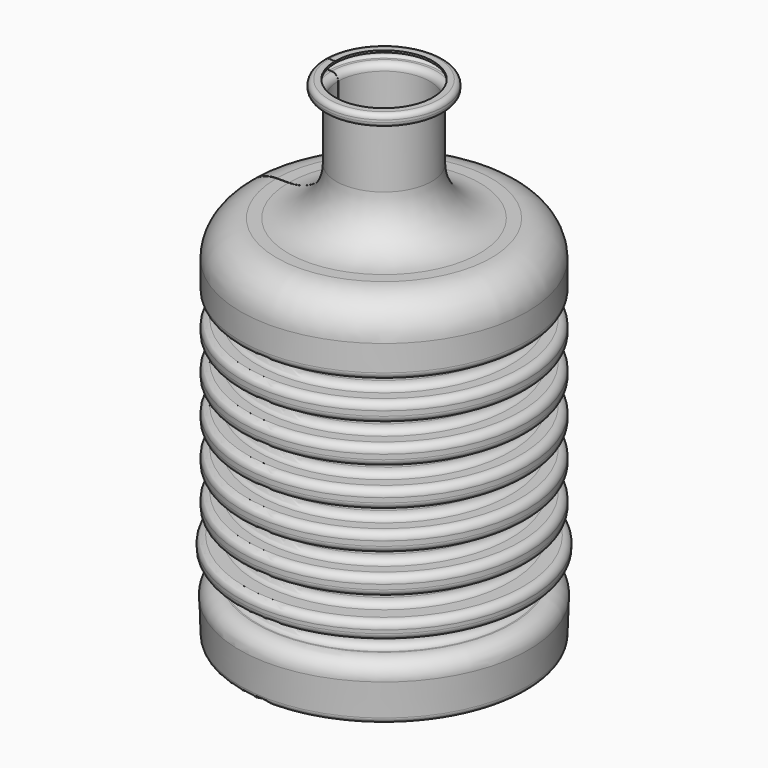
from build123d import *

# Parameters (mm, degrees)
F1_ANGLE = -359.75997


with BuildPart() as f1:
    # F0 (on Front) → F1 (revolve)
    with BuildSketch(Plane.XZ):
        with BuildLine():
            Line((-5.208139, 50.327896), (-5.208139, 50.531096))
            Line((-5.208139, 50.531096), (-5.842, 50.531096))
            ThreePointArc((-5.842, 50.531096), (-6.20121, 50.382306), (-6.35, 50.023096))
            Line((-6.35, 50.023096), (-6.35, 49.769096))
            ThreePointArc((-6.35, 49.769096), (-6.20121, 49.409885), (-5.842, 49.261096))
            Line((-5.842, 49.261096), (-5.588, 49.261096))
            ThreePointArc((-5.588, 49.261096), (-5.22879, 49.112306), (-5.08, 48.753096))
            Line((-5.08, 48.753096), (-5.08, 46.721096))
            Line((-5.08, 46.721096), (-5.08, 42.613812))
            ThreePointArc((-5.08, 42.613812), (-6.567898, 39.02171), (-10.16, 37.533812))
            Line((-10.16, 37.533812), (-11.43, 37.533812))
            ThreePointArc((-11.43, 37.533812), (-14.124077, 36.417889), (-15.24, 33.723812))
            Line((-15.24, 33.723812), (-15.24, 32.352686))
            Line((-15.24, 32.352686), (-15.24, 30.973096))
            ThreePointArc((-15.24, 30.973096), (-15.016815, 30.43428), (-14.478, 30.211096))
            Line((-14.478, 30.211096), (-13.462, 30.211096))
            ThreePointArc((-13.462, 30.211096), (-12.923185, 29.987911), (-12.7, 29.449096))
            Line((-12.7, 29.449096), (-12.7, 28.941096))
            ThreePointArc((-12.7, 28.941096), (-12.923185, 28.40228), (-13.462, 28.179096))
            Line((-13.462, 28.179096), (-14.478, 28.179096))
            ThreePointArc((-14.478, 28.179096), (-15.016815, 27.955911), (-15.24, 27.417096))
            Line((-15.24, 27.417096), (-15.24, 26.909096))
            ThreePointArc((-15.24, 26.909096), (-15.016815, 26.37028), (-14.478, 26.147096))
            Line((-14.478, 26.147096), (-13.462, 26.147096))
            ThreePointArc((-13.462, 26.147096), (-12.923185, 25.923911), (-12.7, 25.385096))
            Line((-12.7, 25.385096), (-12.7, 24.877096))
            ThreePointArc((-12.7, 24.877096), (-12.923185, 24.33828), (-13.462, 24.115096))
            Line((-13.462, 24.115096), (-14.478, 24.115096))
            ThreePointArc((-14.478, 24.115096), (-15.016815, 23.891911), (-15.24, 23.353096))
            Line((-15.24, 23.353096), (-15.24, 22.845096))
            ThreePointArc((-15.24, 22.845096), (-15.016815, 22.30628), (-14.478, 22.083096))
            Line((-14.478, 22.083096), (-13.462, 22.083096))
            ThreePointArc((-13.462, 22.083096), (-12.923185, 21.859911), (-12.7, 21.321096))
            Line((-12.7, 21.321096), (-12.7, 20.813096))
            ThreePointArc((-12.7, 20.813096), (-12.923185, 20.27428), (-13.462, 20.051096))
            Line((-13.462, 20.051096), (-14.478, 20.051096))
            ThreePointArc((-14.478, 20.051096), (-15.016815, 19.827911), (-15.24, 19.289096))
            Line((-15.24, 19.289096), (-15.24, 18.796776))
            ThreePointArc((-15.24, 18.796776), (-15.016815, 18.257961), (-14.478, 18.034776))
            Line((-14.478, 18.034776), (-13.462, 18.034776))
            ThreePointArc((-13.462, 18.034776), (-12.923185, 17.811591), (-12.7, 17.272776))
            Line((-12.7, 17.272776), (-12.7, 16.764776))
            ThreePointArc((-12.7, 16.764776), (-12.923185, 16.225961), (-13.462, 16.002776))
            Line((-13.462, 16.002776), (-14.478, 16.002776))
            ThreePointArc((-14.478, 16.002776), (-15.016815, 15.779591), (-15.24, 15.240776))
            Line((-15.24, 15.240776), (-15.24, 14.732776))
            ThreePointArc((-15.24, 14.732776), (-15.016815, 14.193961), (-14.478, 13.970776))
            Line((-14.478, 13.970776), (-13.462, 13.970776))
            ThreePointArc((-13.462, 13.970776), (-12.923185, 13.747591), (-12.7, 13.208776))
            Line((-12.7, 13.208776), (-12.7, 12.700776))
            ThreePointArc((-12.7, 12.700776), (-12.923185, 12.161961), (-13.462, 11.938776))
            Line((-13.462, 11.938776), (-14.478, 11.938776))
            ThreePointArc((-14.478, 11.938776), (-15.016815, 11.715591), (-15.24, 11.176776))
            Line((-15.24, 11.176776), (-15.24, 10.668776))
            ThreePointArc((-15.24, 10.668776), (-15.016815, 10.129961), (-14.478, 9.906776))
            Line((-14.478, 9.906776), (-13.462, 9.906776))
            ThreePointArc((-13.462, 9.906776), (-12.923185, 9.683591), (-12.7, 9.144776))
            Line((-12.7, 9.144776), (-12.7, 8.636776))
            ThreePointArc((-12.7, 8.636776), (-12.923185, 8.097961), (-13.462, 7.874776))
            Line((-13.462, 7.874776), (-14.812436, 7.874776))
            ThreePointArc((-14.812436, 7.874776), (-15.361935, 7.640692), (-15.573824, 7.082258))
            Line((-15.573824, 7.082258), (-15.559383, 6.721954))
            ThreePointArc((-15.559383, 6.721954), (-15.325909, 6.202972), (-14.797994, 5.990471))
            Line((-14.797994, 5.990471), (-13.462, 5.990471))
            ThreePointArc((-13.462, 5.990471), (-12.923185, 5.767287), (-12.7, 5.228471))
            Line((-12.7, 5.228471), (-12.7, 4.720471))
            ThreePointArc((-12.7, 4.720471), (-12.923185, 4.181656), (-13.462, 3.958471))
            Line((-13.462, 3.958471), (-13.597924, 3.958471))
            ThreePointArc((-13.597924, 3.958471), (-14.880089, 3.412274), (-15.374497, 2.109263))
            Line((-15.374497, 2.109263), (-15.236536, -1.33273))
            ThreePointArc((-15.236536, -1.33273), (-15.041975, -1.765215), (-14.602045, -1.942299))
            Line((-14.602045, -1.942299), (-2.667203, -1.942299))
            Line((-2.667203, -1.942299), (0, -1.942299))
            Line((0, -1.942299), (0, -1.739099))
            Line((0, -1.739099), (-2.667203, -1.739099))
            Line((-2.667203, -1.739099), (-14.602045, -1.739099))
            ThreePointArc((-14.602045, -1.739099), (-14.901198, -1.618682), (-15.033499, -1.324592))
            Line((-15.033499, -1.324592), (-15.171461, 2.117401))
            ThreePointArc((-15.171461, 2.117401), (-14.733556, 3.271497), (-13.597924, 3.755271))
            Line((-13.597924, 3.755271), (-13.462, 3.755271))
            ThreePointArc((-13.462, 3.755271), (-12.779501, 4.037972), (-12.4968, 4.720471))
            Line((-12.4968, 4.720471), (-12.4968, 5.228471))
            ThreePointArc((-12.4968, 5.228471), (-12.779501, 5.910971), (-13.462, 6.193671))
            Line((-13.462, 6.193671), (-14.797994, 6.193671))
            ThreePointArc((-14.797994, 6.193671), (-15.185132, 6.349505), (-15.356346, 6.730092))
            Line((-15.356346, 6.730092), (-15.370787, 7.090396))
            ThreePointArc((-15.370787, 7.090396), (-15.215402, 7.499914), (-14.812436, 7.671576))
            Line((-14.812436, 7.671576), (-13.462, 7.671576))
            ThreePointArc((-13.462, 7.671576), (-12.779501, 7.954277), (-12.4968, 8.636776))
            Line((-12.4968, 8.636776), (-12.4968, 9.144776))
            ThreePointArc((-12.4968, 9.144776), (-12.779501, 9.827276), (-13.462, 10.109976))
            Line((-13.462, 10.109976), (-14.478, 10.109976))
            ThreePointArc((-14.478, 10.109976), (-14.873131, 10.273645), (-15.0368, 10.668776))
            Line((-15.0368, 10.668776), (-15.0368, 11.176776))
            ThreePointArc((-15.0368, 11.176776), (-14.873131, 11.571907), (-14.478, 11.735576))
            Line((-14.478, 11.735576), (-13.462, 11.735576))
            ThreePointArc((-13.462, 11.735576), (-12.779501, 12.018277), (-12.4968, 12.700776))
            Line((-12.4968, 12.700776), (-12.4968, 13.208776))
            ThreePointArc((-12.4968, 13.208776), (-12.779501, 13.891276), (-13.462, 14.173976))
            Line((-13.462, 14.173976), (-14.478, 14.173976))
            ThreePointArc((-14.478, 14.173976), (-14.873131, 14.337645), (-15.0368, 14.732776))
            Line((-15.0368, 14.732776), (-15.0368, 15.240776))
            ThreePointArc((-15.0368, 15.240776), (-14.873131, 15.635907), (-14.478, 15.799576))
            Line((-14.478, 15.799576), (-13.462, 15.799576))
            ThreePointArc((-13.462, 15.799576), (-12.779501, 16.082277), (-12.4968, 16.764776))
            Line((-12.4968, 16.764776), (-12.4968, 17.272776))
            ThreePointArc((-12.4968, 17.272776), (-12.779501, 17.955276), (-13.462, 18.237976))
            Line((-13.462, 18.237976), (-14.478, 18.237976))
            ThreePointArc((-14.478, 18.237976), (-14.873131, 18.401645), (-15.0368, 18.796776))
            Line((-15.0368, 18.796776), (-15.0368, 19.289096))
            ThreePointArc((-15.0368, 19.289096), (-14.873131, 19.684227), (-14.478, 19.847896))
            Line((-14.478, 19.847896), (-13.462, 19.847896))
            ThreePointArc((-13.462, 19.847896), (-12.779501, 20.130596), (-12.4968, 20.813096))
            Line((-12.4968, 20.813096), (-12.4968, 21.321096))
            ThreePointArc((-12.4968, 21.321096), (-12.779501, 22.003595), (-13.462, 22.286296))
            Line((-13.462, 22.286296), (-14.478, 22.286296))
            ThreePointArc((-14.478, 22.286296), (-14.873131, 22.449964), (-15.0368, 22.845096))
            Line((-15.0368, 22.845096), (-15.0368, 23.353096))
            ThreePointArc((-15.0368, 23.353096), (-14.873131, 23.748227), (-14.478, 23.911896))
            Line((-14.478, 23.911896), (-13.462, 23.911896))
            ThreePointArc((-13.462, 23.911896), (-12.779501, 24.194596), (-12.4968, 24.877096))
            Line((-12.4968, 24.877096), (-12.4968, 25.385096))
            ThreePointArc((-12.4968, 25.385096), (-12.779501, 26.067595), (-13.462, 26.350296))
            Line((-13.462, 26.350296), (-14.478, 26.350296))
            ThreePointArc((-14.478, 26.350296), (-14.873131, 26.513964), (-15.0368, 26.909096))
            Line((-15.0368, 26.909096), (-15.0368, 27.417096))
            ThreePointArc((-15.0368, 27.417096), (-14.873131, 27.812227), (-14.478, 27.975896))
            Line((-14.478, 27.975896), (-13.462, 27.975896))
            ThreePointArc((-13.462, 27.975896), (-12.779501, 28.258596), (-12.4968, 28.941096))
            Line((-12.4968, 28.941096), (-12.4968, 29.449096))
            ThreePointArc((-12.4968, 29.449096), (-12.779501, 30.131595), (-13.462, 30.414296))
            Line((-13.462, 30.414296), (-14.478, 30.414296))
            ThreePointArc((-14.478, 30.414296), (-14.873131, 30.577964), (-15.0368, 30.973096))
            Line((-15.0368, 30.973096), (-15.0368, 32.352686))
            Line((-15.0368, 32.352686), (-15.0368, 33.723812))
            ThreePointArc((-15.0368, 33.723812), (-13.980393, 36.274205), (-11.43, 37.330612))
            Line((-11.43, 37.330612), (-10.16, 37.330612))
            ThreePointArc((-10.16, 37.330612), (-6.424213, 38.878026), (-4.8768, 42.613812))
            Line((-4.8768, 42.613812), (-4.8768, 46.721096))
            Line((-4.8768, 46.721096), (-4.8768, 48.753096))
            ThreePointArc((-4.8768, 48.753096), (-5.085106, 49.25599), (-5.588, 49.464296))
            Line((-5.588, 49.464296), (-5.842, 49.464296))
            ThreePointArc((-5.842, 49.464296), (-6.057526, 49.553569), (-6.1468, 49.769096))
            Line((-6.1468, 49.769096), (-6.1468, 50.023096))
            ThreePointArc((-6.1468, 50.023096), (-6.057526, 50.238622), (-5.842, 50.327896))
            Line((-5.842, 50.327896), (-5.208139, 50.327896))
        make_face()
    revolve(axis=Axis((0, 0, 21.771468), (0, 0, -1)), revolution_arc=F1_ANGLE)


solid = f1.part
